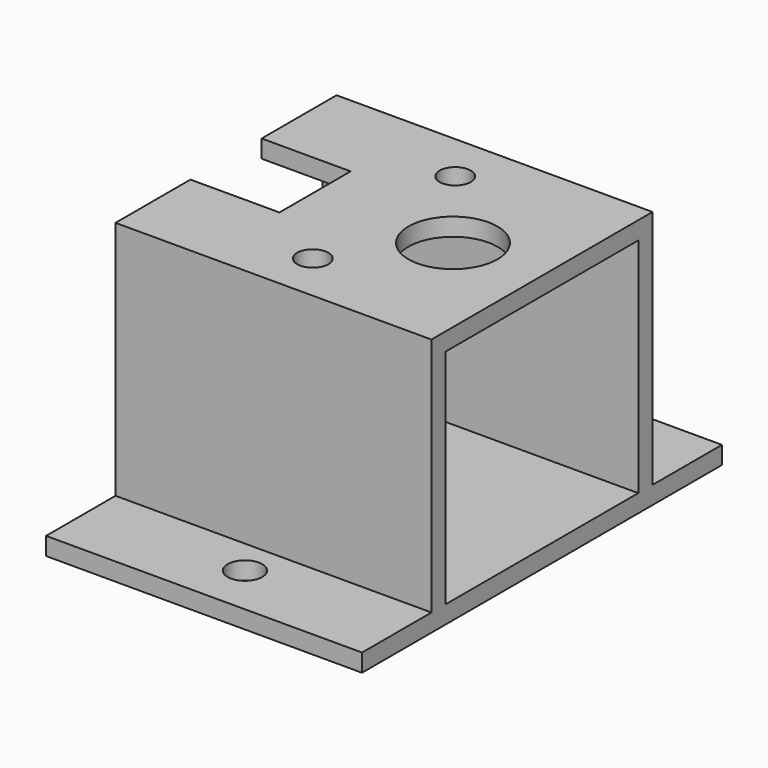
from build123d import *

# Parameters (mm, degrees)
SKETCH072_W     = 35.5
SKETCH072_H     = 31.05
PAD050_DEPTH    = 2
SKETCH073_W     = 35.5
SKETCH073_H     = 2
PAD051_DEPTH    = 25
SKETCH074_R     = 1.95
PAD052_DEPTH    = 2
SKETCH075_R     = 1.75
SKETCH075_R_2   = 5
SKETCH075_W     = 10
SKETCH075_H     = 10
POCKET013_DEPTH = 2


with BuildPart() as part:
    # Sketch072 → Pad050 (new body)
    with BuildSketch(Plane.XY):
        Rectangle(SKETCH072_W, SKETCH072_H)
    extrude(amount=PAD050_DEPTH)

    # Sketch073 (on Face5 of Pad050) → Pad051 (join)
    with BuildSketch(Plane(origin=(0, 0, 0), x_dir=(1, 0, 0), z_dir=(0, 0, -1))):
        with Locations((0, 14.525)):
            Rectangle(SKETCH073_W, SKETCH073_H)
        with Locations((0, -14.525)):
            Rectangle(SKETCH073_W, SKETCH073_H)
    extrude(amount=PAD051_DEPTH)

    # Sketch074 (on Face16 of Pad051) → Pad052 (join)
    with BuildSketch(Plane(origin=(0, 0, -25), x_dir=(1, 0, 0), z_dir=(0, 0, -1))):
        Polygon((-17.75, 25.275), (17.75, 25.275), (17.75, 15.525), (17.75, -15.525), (17.75, -25.275), (-17.75, -25.275), (-17.75, -15.525), (-17.75, 15.525), align=None)
        with Locations((0, 19.525)):
            Circle(SKETCH074_R, mode=Mode.SUBTRACT)
        with Locations((0, -19.525)):
            Circle(SKETCH074_R, mode=Mode.SUBTRACT)
    extrude(amount=PAD052_DEPTH)

    # Sketch075 (on Face6 of Pad050) → Pocket013 (cut)
    with BuildSketch(Plane.XY.offset(2)):
        with Locations((0, 10)):
            Circle(SKETCH075_R)
        with Locations((0, -10)):
            Circle(SKETCH075_R)
        with Locations((7.75, 0)):
            Circle(SKETCH075_R_2)
        with Locations((-12.75, 0)):
            Rectangle(SKETCH075_W, SKETCH075_H)
    extrude(amount=-POCKET013_DEPTH, mode=Mode.SUBTRACT)


with BuildPart() as part_1:
    # Body017 placement: moved
    add(part.part.moved(Location((40, 0, -2))))


solid = part_1.part
